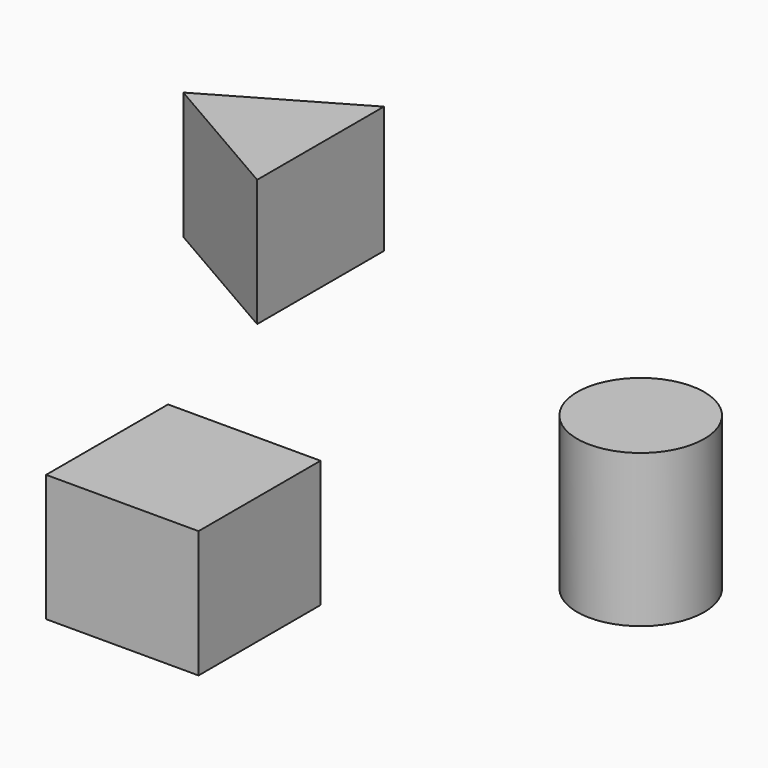
from build123d import *

# Parameters (mm, degrees)
F0_W     = 30
F0_H     = 30
F1_DEPTH = 25
F0_R     = 12.5
F2_DEPTH = 30
F5_DEPTH = 25


with BuildPart() as f1:
    # F0 (on Top) → F1 (new body)
    with BuildSketch(Plane.XY):
        Rectangle(F0_W, F0_H)
    extrude(amount=F1_DEPTH)


with BuildPart() as f2:
    # F0 (on Top) → F2 (new body)
    with BuildSketch(Plane.XY):
        with Locations((50, 50)):
            Circle(F0_R)
    extrude(amount=F2_DEPTH)


with BuildPart() as f5:
    # F4 (on offset) → F5 (new body)
    with BuildSketch(Plane.XY.offset(25)):
        Polygon((-48, 60), (-21, 44.411543), (-21, 75.588457), align=None)
    extrude(amount=F5_DEPTH)


solid = Compound([f1.part, f2.part, f5.part])
